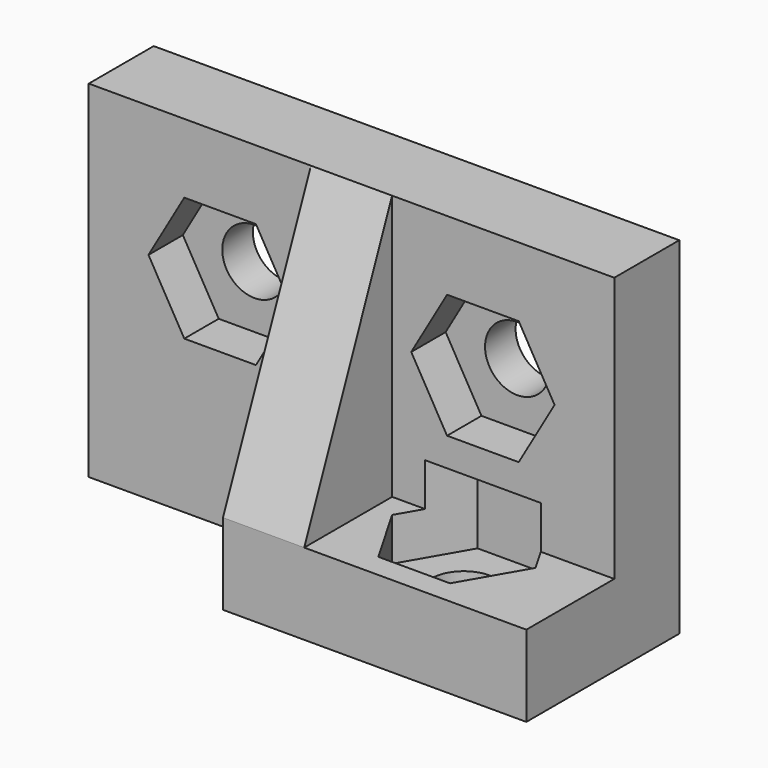
from build123d import *

# Parameters (mm, degrees)
EXTRUDE003_DEPTH  = 3.6
CYLINDER002_R     = 1.35
CYLINDER002_DEPTH = 3.4
EXTRUDE002_DEPTH  = 1.8
CYLINDER003_R     = 1.35
CYLINDER003_DEPTH = 3.4
EXTRUDE001_DEPTH  = 1.8
CYLINDER_R        = 1.35
CYLINDER_DEPTH    = 3.4
BOX_W             = 22
BOX_H             = 3.4
BOX_DEPTH         = 14.5
BOX001_W          = 12.7
BOX001_H          = 4.6
BOX001_DEPTH      = 3.4
EXTRUDE_DEPTH     = 3.4


with BuildPart() as extrude003:
    # Sketch003 → Extrude003 (new body)
    with BuildSketch(Plane(origin=(16.5, -1, 1.6), x_dir=(1, 0, 0), z_dir=(0, 0, 1))):
        Polygon((3, 0), (1.5, 2.598076), (-1.5, 2.598076), (-3, 0), (-1.5, -2.598076), (1.5, -2.598076), align=None)
    extrude(amount=EXTRUDE003_DEPTH)


with BuildPart() as hole03:
    # Cylinder002 → Cylinder002 (new body)
    with BuildSketch(Plane(origin=(16.5, -1, 0), x_dir=(0, 1, 0), z_dir=(0, 0, 1))):
        Circle(CYLINDER002_R)
    extrude(amount=CYLINDER002_DEPTH)

    # Fusion002: union Extrude003
    add(extrude003.part)


with BuildPart() as extrude002:
    # Sketch002 → Extrude002 (new body)
    with BuildSketch(Plane(origin=(16.5, 1.8, 9), x_dir=(1, 0, 0), z_dir=(0, -1, 0))):
        Polygon((3, 0), (1.5, 2.598076), (-1.5, 2.598076), (-3, 0), (-1.5, -2.598076), (1.5, -2.598076), align=None)
    extrude(amount=EXTRUDE002_DEPTH)


with BuildPart() as hole02:
    # Cylinder003 → Cylinder003 (new body)
    with BuildSketch(Plane(origin=(16.5, 3.4, 9), x_dir=(1, 0, 0), z_dir=(0, -1, 0))):
        Circle(CYLINDER003_R)
    extrude(amount=CYLINDER003_DEPTH)

    # Fusion001: union Extrude002
    add(extrude002.part)


with BuildPart() as extrude001:
    # Sketch001 → Extrude001 (new body)
    with BuildSketch(Plane(origin=(5.5, 1.8, 9), x_dir=(1, 0, 0), z_dir=(0, -1, 0))):
        Polygon((3, 0), (1.5, 2.598076), (-1.5, 2.598076), (-3, 0), (-1.5, -2.598076), (1.5, -2.598076), align=None)
    extrude(amount=EXTRUDE001_DEPTH)


with BuildPart() as hole01:
    # Cylinder → Cylinder (new body)
    with BuildSketch(Plane(origin=(5.5, 3.4, 9), x_dir=(1, 0, 0), z_dir=(0, -1, 0))):
        Circle(CYLINDER_R)
    extrude(amount=CYLINDER_DEPTH)

    # Fusion: union Extrude001
    add(extrude001.part)


with BuildPart() as cut001:
    # Box → Box (new body)
    with BuildSketch(Plane.XY):
        with Locations((11, 1.7)):
            Rectangle(BOX_W, BOX_H)
    extrude(amount=BOX_DEPTH)

    # Cut: cut Hole01
    add(hole01.part, mode=Mode.SUBTRACT)

    # Cut001: cut Hole02
    add(hole02.part, mode=Mode.SUBTRACT)


with BuildPart() as cut002:
    # Box001 → Box001 (new body)
    with BuildSketch(Plane(origin=(9.3, -4.6, 0), x_dir=(1, 0, 0), z_dir=(0, 0, 1))):
        with Locations((6.35, 2.3)):
            Rectangle(BOX001_W, BOX001_H)
    extrude(amount=BOX001_DEPTH)

    # Fusion003: union Cut001
    add(cut001.part)

    # Cut002: cut Hole03
    add(hole03.part, mode=Mode.SUBTRACT)


with BuildPart() as right_hand_bracket:
    # Sketch → Extrude (new body)
    with BuildSketch(Plane(origin=(0, 0, 3.4), x_dir=(0, 1, 0), z_dir=(1, 0, 0))):
        Polygon((0, 11.1), (0, 0), (-4.6, 0), align=None)
    extrude(amount=EXTRUDE_DEPTH)


with BuildPart() as right_hand_bracket_1:
    # Extrude placement: moved
    add(right_hand_bracket.part.moved(Location((9.3, 0, 0))))

    # Fusion004: union Cut002
    add(cut002.part)


solid = right_hand_bracket_1.part
